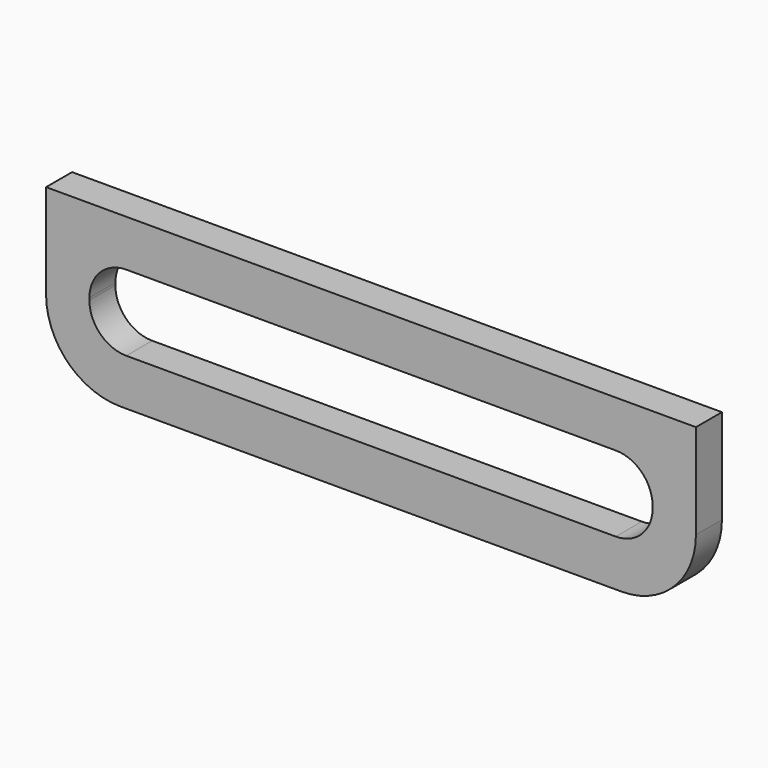
from build123d import *

# Parameters (mm, degrees)
F0_W     = 381
F0_H     = 99.06
F1_DEPTH = 19.05
F2_R     = 43.537927
F3_W     = 330.2
F3_H     = 44.45
F4_DEPTH = 19.051
F5_R     = 21.59


with BuildPart() as f1:
    # F0 (on Front) → F1 (new body)
    with BuildSketch(Plane.XZ):
        with Locations((190.5, -49.53)):
            Rectangle(F0_W, F0_H)
    extrude(amount=F1_DEPTH)

    # F2
    f2_edges = [f1.edges().sort_by_distance(p)[0] for p in [
        (0, -9.525, -99.06),
        (381, -9.525, -99.06),
    ]]
    fillet(f2_edges, radius=F2_R)

    # F3 (on face) → F4 (cut, through all)
    with BuildSketch(Plane.XZ.offset(19.05)):
        with Locations((190.5, -49.53)):
            Rectangle(F3_W, F3_H)
    extrude(amount=-F4_DEPTH, mode=Mode.SUBTRACT)

    # F5
    f5_edges = [f1.edges().sort_by_distance(p)[0] for p in [
        (25.4, -9.525, -71.755),
        (25.4, -9.525, -27.305),
        (355.6, -9.525, -27.305),
        (355.6, -9.525, -71.755),
    ]]
    fillet(f5_edges, radius=F5_R)


solid = f1.part
